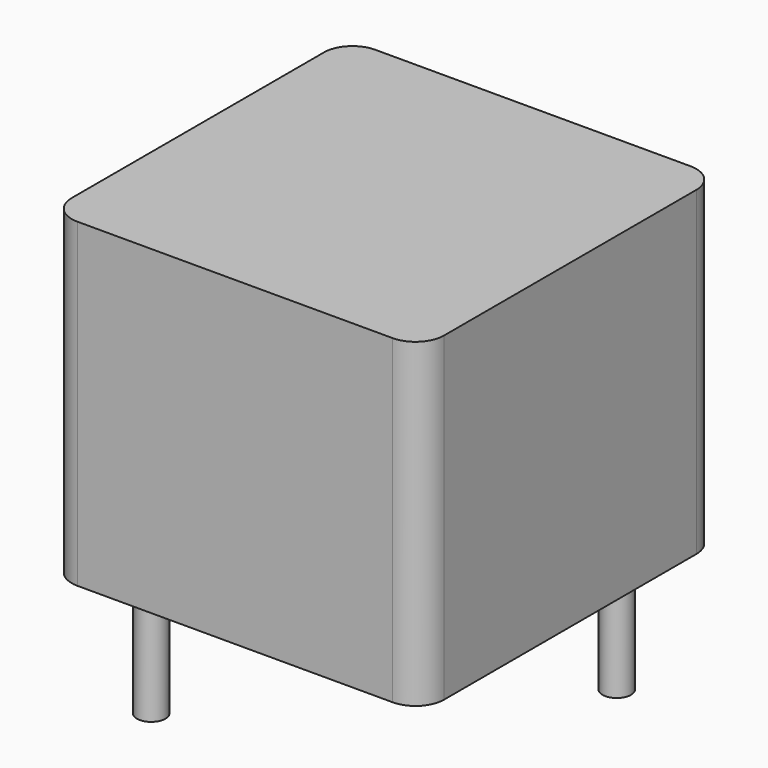
from build123d import *

# Parameters (mm, degrees)
SKETCH_W     = 9.14
SKETCH_H     = 9.14
PAD_DEPTH    = 7.87
FILLET_R     = 0.7
SKETCH001_R  = 0.35
PAD001_DEPTH = 3.5


with BuildPart() as fillet_body:
    # Sketch → Pad (new body)
    with BuildSketch(Plane.XY.offset(0.1)):
        with Locations((3.175, 3.175)):
            Rectangle(SKETCH_W, SKETCH_H)
    extrude(amount=PAD_DEPTH)

    # Fillet
    fillet_edges = [fillet_body.edges().sort_by_distance(p)[0] for p in [
        (7.745, -1.395, 4.035),
        (7.745, 7.745, 4.035),
        (-1.395, -1.395, 4.035),
        (-1.395, 7.745, 4.035),
    ]]
    fillet(fillet_edges, radius=FILLET_R)


with BuildPart() as obj1:
    # Sketch001 → Pad001 (new body)
    with BuildSketch(Plane.XY.offset(0.5)):
        Circle(SKETCH001_R)
        with Locations((6.35, 6.35)):
            Circle(SKETCH001_R)
    extrude(amount=-PAD001_DEPTH)

    # obj1: union Fillet body
    add(fillet_body.part)


solid = obj1.part
